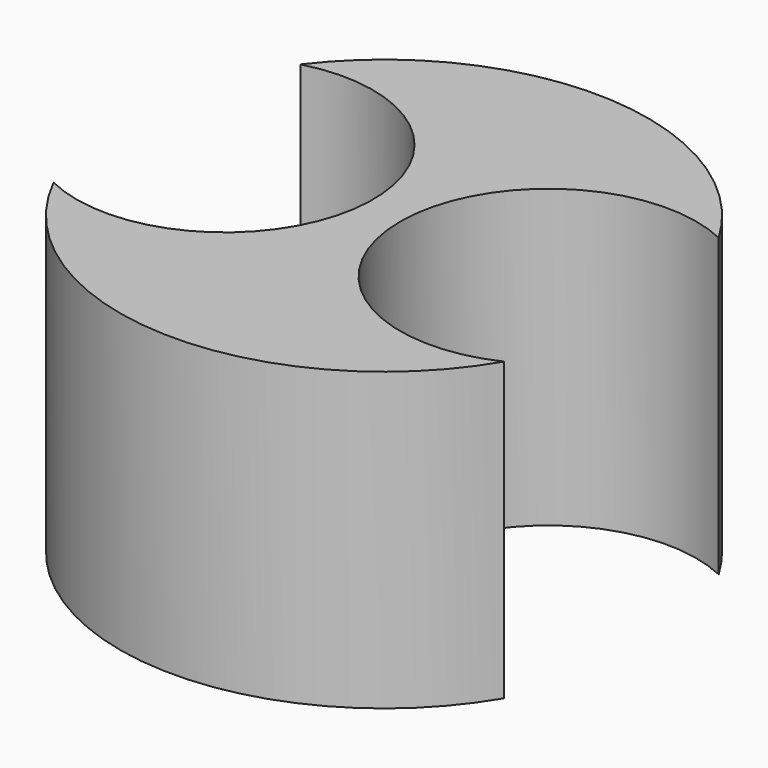
from build123d import *

# Parameters (mm, degrees)
F0_R      = 45.251608
F1_DEPTH  = 25.4
F1_FACE_R = 45.251608
F2_DEPTH  = 25.4
F4_D      = 50.8


with BuildPart() as f1:
    # F0 (on Top) → F1 (new body)
    with BuildSketch(Plane.XY):
        Circle(F0_R)
    extrude(amount=F1_DEPTH)

    # F1_face (on face) → F2 (join)
    with BuildSketch(Plane.XY.offset(25.4)):
        Circle(F1_FACE_R)
    extrude(amount=F2_DEPTH)

    # F4 (through all)
    with Locations(Plane.XY.offset(50.8)):
        with Locations((-29.471625, 2.728854), (28.161775, 0)):
            Hole(F4_D / 2)


solid = f1.part
